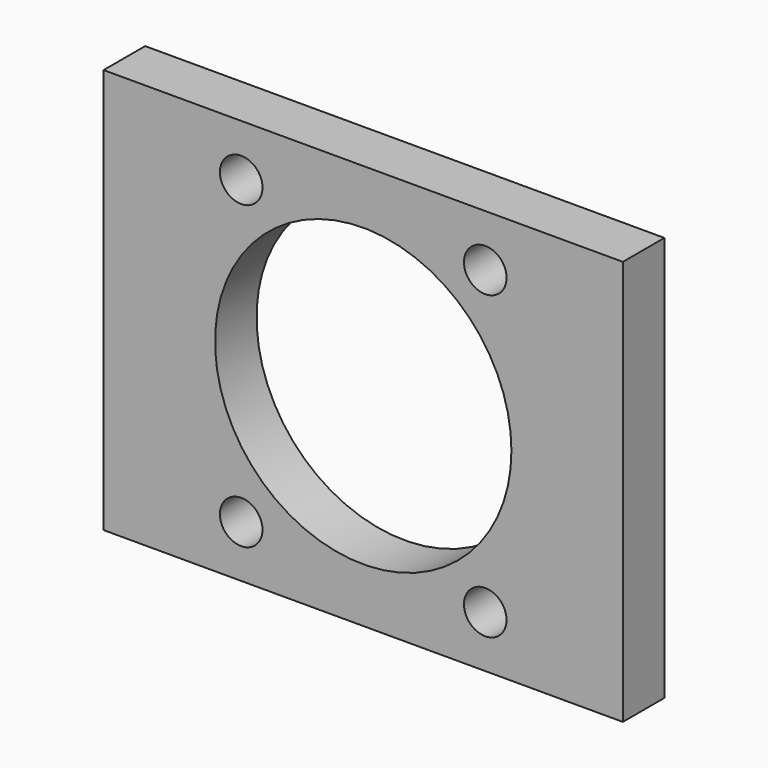
from build123d import *

# Parameters (mm, degrees)
F0_W     = 33.5
F0_H     = 39
F0_R     = 2.05
F0_R_2   = 14.27
F1_DEPTH = 5
F2_W     = 8.25
F2_H     = 39
F3_DEPTH = 5


with BuildPart() as f1:
    # F0 (on Front) → F1 (new body)
    with BuildSketch(Plane.XZ):
        with Locations((-32.0278543325, -14.5)):
            Rectangle(F0_W, F0_H)
        with Locations((-43.7778543325, -29)):
            Circle(F0_R, mode=Mode.SUBTRACT)
        with Locations((-20.2778543325, -29)):
            Circle(F0_R, mode=Mode.SUBTRACT)
        with Locations((-43.7778543325, 0)):
            Circle(F0_R, mode=Mode.SUBTRACT)
        with Locations((-32.0278543325, -14.5)):
            Circle(F0_R_2, mode=Mode.SUBTRACT)
        with Locations((-20.2778543325, 0)):
            Circle(F0_R, mode=Mode.SUBTRACT)
    extrude(amount=F1_DEPTH)

    # F2 (on face) → F3 (join, through all)
    with BuildSketch(Plane.XZ.offset(5)):
        with Locations((-52.9028543325, -14.5)):
            Rectangle(F2_W, F2_H)
        with Locations((-11.1528543325, -14.5)):
            Rectangle(F2_W, F2_H)
    extrude(amount=-F3_DEPTH)


solid = f1.part
